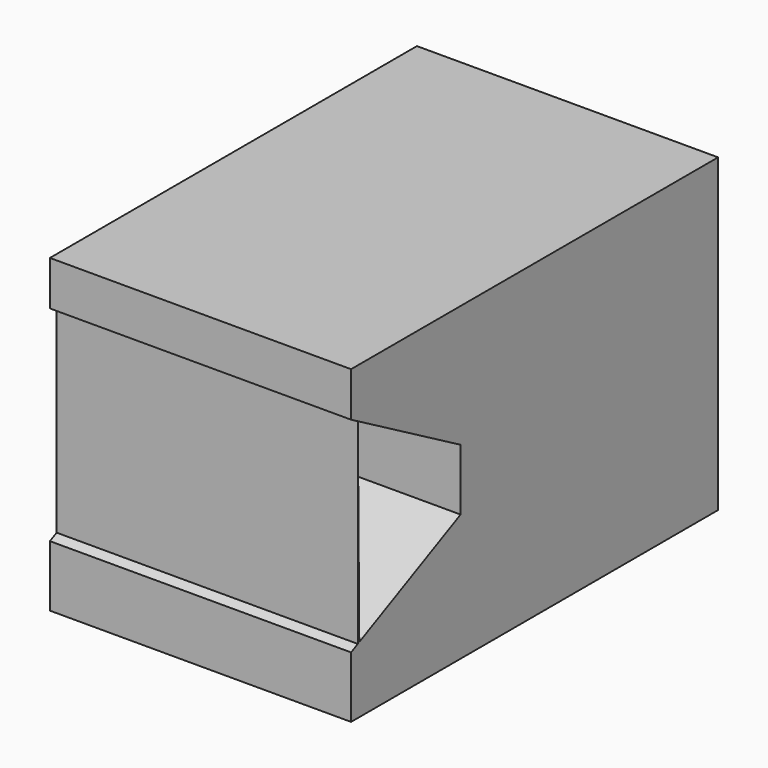
from build123d import *

# Parameters (mm, degrees)
F0_W     = 76.149322
F0_H     = 97.219742
F1_DEPTH = 58
F2_W     = 76.149322
F2_H     = 116
F3_DEPTH = 18.7
F5_DEPTH = 123.1
F7_DEPTH = 89.5


with BuildPart() as f1:
    # F0 (on Front) → F1 (new body, symmetric)
    with BuildSketch(Plane.XZ):
        Rectangle(F0_W, F0_H)
    extrude(amount=F1_DEPTH, both=True)

    # F2 (on face) → F3 (cut)
    with BuildSketch(Plane.XY.offset(48.609871)):
        Rectangle(F2_W, F2_H)
    extrude(amount=-F3_DEPTH, mode=Mode.SUBTRACT)

    # F4 (on Right) → F5 (cut, symmetric)
    with BuildSketch(Plane.YZ):
        Polygon((-23.388904, -0.990585), (-55.867601, 17.457999), (-55.406615, -31.883165), (-23.388904, -16.519183), align=None)
    extrude(amount=F5_DEPTH, both=True, mode=Mode.SUBTRACT)

    # F6 (on Right) → F7 (cut, symmetric)
    with BuildSketch(Plane.YZ):
        Polygon((-55.870809, 17.301733), (-55.870809, 17.458142), (-58.005538, 18.668221), (-58.056336, -33.160523), (-55.870809, -32.10915), align=None)
    extrude(amount=F7_DEPTH, both=True, mode=Mode.SUBTRACT)


solid = f1.part
